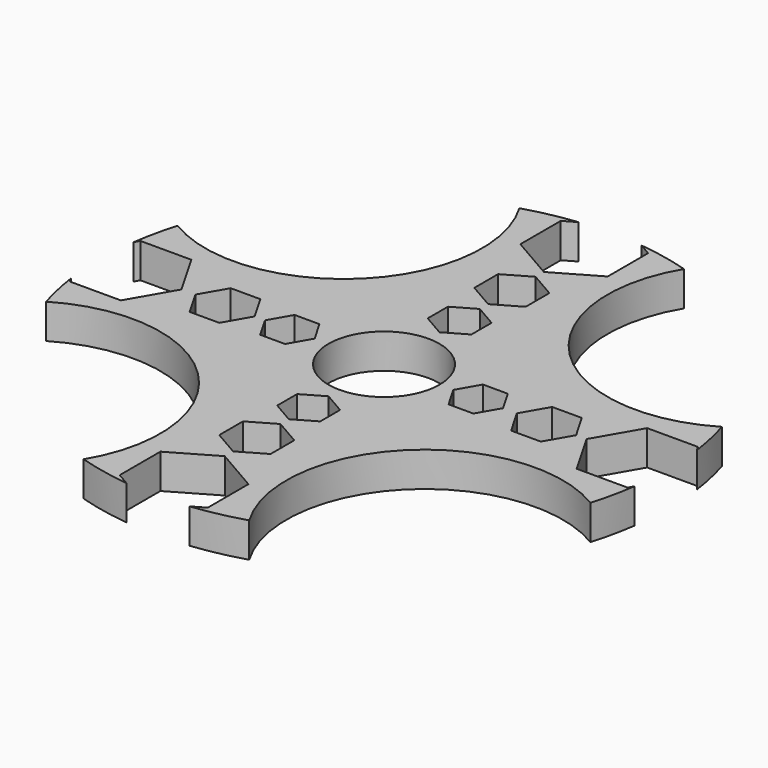
from build123d import *

# Parameters (mm, degrees)
F0_R      = 41
F0_R_2    = 8
F2_DEPTH  = 5
F5_DEPTH  = 5.001
F7_DEPTH  = 5.001
F9_DEPTH  = 5.001
F11_DEPTH = 5.001
F13_DEPTH = 5.001
F15_DEPTH = 25
F16_R     = 8
F17_DEPTH = 5.001
F19_DEPTH = 5.001
F21_DEPTH = 5.001
F22_R     = 8
F23_DEPTH = 5.001
F24_R     = 8
F25_DEPTH = 5.001
F26_R     = 8
F27_DEPTH = 5.001
F28_R     = 19.931343
F29_DEPTH = 5.001
F30_R     = 19.962779
F31_DEPTH = 5.001
F32_R     = 19.962779
F33_DEPTH = 5.001
F34_R     = 19.931343
F35_DEPTH = 5.001


with BuildPart() as f2:
    # F0 (on Top) → F2 (new body)
    with BuildSketch(Plane.XY):
        with Locations((-41.447371, -163.815796)):
            Circle(F0_R)
        with Locations((-41.447371, -163.815796)):
            Circle(F0_R_2, mode=Mode.SUBTRACT)
    extrude(amount=F2_DEPTH)

    # F4 (on face) → F5 (cut, through all)
    with BuildSketch(Plane.XY.offset(5)):
        Polygon((-38.297371, -151.997143), (-38.297371, -148.359836), (-41.447371, -146.541183), (-44.597371, -148.359836), (-44.597371, -151.997143), (-41.447371, -153.815796), align=None)
    extrude(amount=-F5_DEPTH, mode=Mode.SUBTRACT)

    # F6 (on face) → F7 (cut, through all)
    with BuildSketch(Plane.XY.offset(5)):
        Polygon((-37.747371, -142.904987), (-37.747371, -138.632595), (-41.447371, -136.496399), (-45.147371, -138.632595), (-45.147371, -142.904987), (-41.447371, -145.041183), align=None)
    extrude(amount=-F7_DEPTH, mode=Mode.SUBTRACT)

    # F8 (on face) → F9 (cut, through all)
    with BuildSketch(Plane.XY.offset(5)):
        Polygon((-47.747371, -131.359092), (-41.447371, -134.996399), (-35.147371, -131.359092), (-35.147371, -124.084479), (-41.447371, -120.447172), (-47.747371, -124.084479), align=None)
    extrude(amount=-F9_DEPTH, mode=Mode.SUBTRACT)

    # F10 (on face) → F11 (cut, through all)
    with BuildSketch(Plane.XY):
        Polygon((-38.347371, -175.605582), (-41.447371, -173.815796), (-44.547371, -175.605582), (-44.547371, -179.185154), (-41.447371, -180.97494), (-38.347371, -179.185154), align=None)
    extrude(amount=F11_DEPTH, mode=Mode.SUBTRACT)

    # F12 (on face) → F13 (cut, through all)
    with BuildSketch(Plane.XY):
        Polygon((-37.747371, -184.611136), (-41.447371, -182.47494), (-45.147371, -184.611136), (-45.147371, -188.883528), (-41.447371, -191.019724), (-37.747371, -188.883528), align=None)
    extrude(amount=F13_DEPTH, mode=Mode.SUBTRACT)

    # F14 (on face) → F15 (cut)
    with BuildSketch(Plane.XY):
        with BuildLine():
            Line((-35.097371, -196.185898), (-41.447371, -192.519724))
            Line((-41.447371, -192.519724), (-47.797371, -196.185898))
            Line((-47.797371, -196.185898), (-47.797371, -203.518246))
            Line((-47.797371, -203.518246), (-45.986492, -204.563758))
            ThreePointArc((-45.986492, -204.563758), (-41.447371, -204.815796), (-36.908251, -204.563758))
            Line((-36.908251, -204.563758), (-35.097371, -203.518246))
            Line((-35.097371, -203.518246), (-35.097371, -196.185898))
        make_face()
    extrude(amount=F15_DEPTH, mode=Mode.SUBTRACT)

    # F16 (on face) → F17 (cut, through all)
    with BuildSketch(Plane.XY):
        with Locations((-41.447371, -163.815796)):
            Circle(F16_R)
        Polygon((-24.288228, -163.815796), (-26.078014, -160.715796), (-29.657585, -160.715796), (-31.447371, -163.815796), align=None)
        Polygon((-26.078014, -166.915796), (-24.288228, -163.815796), (-31.447371, -163.815796), (-29.657585, -166.915796), align=None)
    extrude(amount=F17_DEPTH, mode=Mode.SUBTRACT)

    # F18 (on face) → F19 (cut, through all)
    with BuildSketch(Plane.XY):
        Polygon((-15.87964, -160.115796), (-20.152032, -160.115796), (-22.288228, -163.815796), (-20.152032, -167.515796), (-15.87964, -167.515796), (-13.743444, -163.815796), align=None)
    extrude(amount=F19_DEPTH, mode=Mode.SUBTRACT)

    # F20 (on face) → F21 (cut, through all)
    with BuildSketch(Plane.XY):
        with BuildLine():
            Line((-0.837825, -158.170907), (-1.244921, -157.465796))
            Line((-1.244921, -157.465796), (-8.57727, -157.465796))
            Line((-8.57727, -157.465796), (-12.243444, -163.815796))
            Line((-12.243444, -163.815796), (-8.57727, -170.165796))
            Line((-8.57727, -170.165796), (-1.244921, -170.165796))
            Line((-1.244921, -170.165796), (-0.837825, -169.460685))
            ThreePointArc((-0.837825, -169.460685), (-0.545101, -166.644985), (-0.447371, -163.815796))
            ThreePointArc((-0.447371, -163.815796), (-0.545101, -160.986608), (-0.837825, -158.170907))
        make_face()
    extrude(amount=F21_DEPTH, mode=Mode.SUBTRACT)

    # F22 (on face) → F23 (cut, through all)
    with BuildSketch(Plane.XY.offset(5)):
        Polygon((-53.237157, -160.715796), (-56.816729, -160.715796), (-58.606515, -163.815796), (-56.816729, -166.915796), (-53.237157, -166.915796), (-51.447371, -163.815796), align=None)
        with Locations((-41.447371, -163.815796)):
            Circle(F22_R)
    extrude(amount=-F23_DEPTH, mode=Mode.SUBTRACT)

    # F24 (on face) → F25 (cut, through all)
    with BuildSketch(Plane.XY.offset(5)):
        Polygon((-60.106515, -163.815796), (-62.242711, -160.115796), (-66.515103, -160.115796), (-68.651299, -163.815796), (-66.515103, -167.515796), (-62.242711, -167.515796), align=None)
        with Locations((-41.447371, -163.815796)):
            Circle(F24_R)
    extrude(amount=-F25_DEPTH, mode=Mode.SUBTRACT)

    # F26 (on face) → F27 (cut, through all)
    with BuildSketch(Plane.XY.offset(5)):
        Polygon((-85.315995, -163.815796), (-81.649821, -170.165796), (-74.317473, -170.165796), (-70.651299, -163.815796), (-74.317473, -157.465796), (-81.649821, -157.465796), align=None)
        with Locations((-41.447371, -163.815796)):
            Circle(F26_R)
    extrude(amount=-F27_DEPTH, mode=Mode.SUBTRACT)

    # F28 (on face) → F29 (cut, through all)
    with BuildSketch(Plane.XY.offset(5)):
        with Locations((-70.473262, -192.772621)):
            Circle(F28_R)
    extrude(amount=-F29_DEPTH, mode=Mode.SUBTRACT)

    # F30 (on face) → F31 (cut, through all)
    with BuildSketch(Plane.XY.offset(5)):
        with Locations((-70.446051, -134.831722)):
            Circle(F30_R)
    extrude(amount=-F31_DEPTH, mode=Mode.SUBTRACT)

    # F32 (on face) → F33 (cut, through all)
    with BuildSketch(Plane.XY.offset(5)):
        with Locations((-12.448691, -134.831722)):
            Circle(F32_R)
    extrude(amount=-F33_DEPTH, mode=Mode.SUBTRACT)

    # F34 (on face) → F35 (cut, through all)
    with BuildSketch(Plane.XY.offset(5)):
        with Locations((-12.421481, -192.772621)):
            Circle(F34_R)
    extrude(amount=-F35_DEPTH, mode=Mode.SUBTRACT)


solid = f2.part
